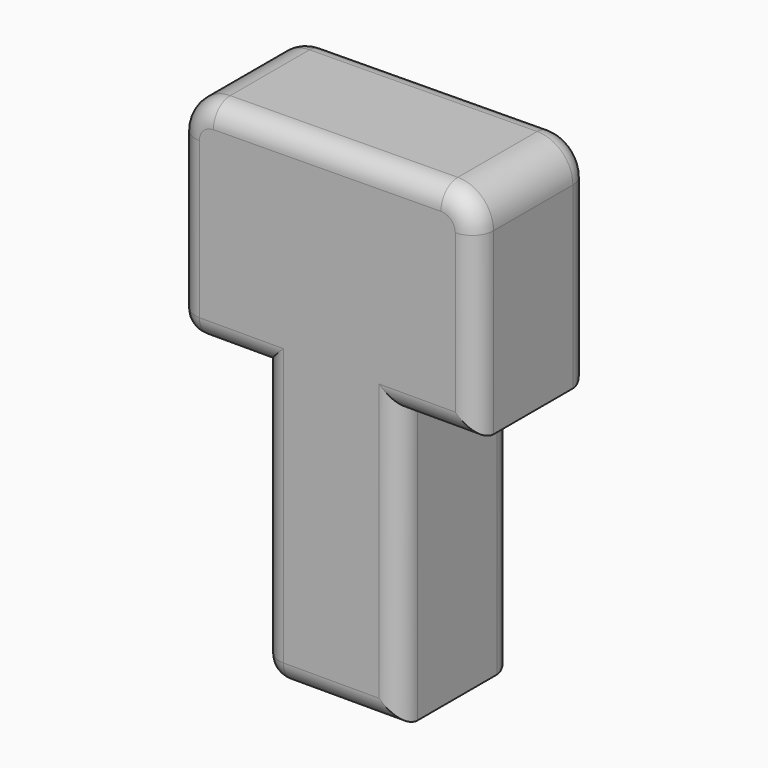
from build123d import *

# Parameters (mm, degrees)
F1_DEPTH = 25.4
F2_R     = 3.81


with BuildPart() as f1:
    # F0 (on Front) → F1 (new body)
    with BuildSketch(Plane.XZ):
        with BuildLine():
            Line((-19.715151, -2.790324), (-14.364938, -2.790324))
            Line((-14.364938, -2.790324), (-14.364938, -52.401388))
            Line((-14.364938, -52.401388), (5.090383, -52.401388))
            Line((5.090383, -52.401388), (10.440593, -52.401388))
            Line((10.440593, -52.401388), (10.440593, -2.790324))
            Line((10.440593, -2.790324), (24.075959, -2.790324))
            Line((24.075959, -2.790324), (24.075959, 29.341159))
            ThreePointArc((24.075959, 29.341159), (22.195631, 33.851649), (17.668234, 35.690896))
            Line((17.668234, 35.690896), (-23.133896, 35.319966))
            ThreePointArc((-23.133896, 35.319966), (-27.586661, 33.439901), (-29.426171, 28.970229))
            Line((-29.426171, 28.970229), (-29.426171, 0))
            Line((-29.426171, 0), (-29.426171, -2.790324))
            Line((-29.426171, -2.790324), (-24.092596, -2.790324))
            Line((-24.092596, -2.790324), (-19.715151, -2.790324))
        make_face()
    extrude(amount=F1_DEPTH)

    # F2
    f2_edges = [f1.edges().sort_by_distance(p)[0] for p in [
        (-21.895554, -25.4, -2.790324),
        (-29.426171, -25.4, 13.089953),
        (17.258276, -25.4, -2.790324),
        (-14.364938, -25.4, -27.595856),
        (-27.586661, -25.4, 33.439901),
        (-1.962172, -25.4, -52.401388),
        (10.440593, -25.4, -27.595856),
        (24.075959, -25.4, 13.275418),
        (22.195631, -25.4, 33.851649),
        (-2.732831, -25.4, 35.505431),
        (-14.364938, -12.7, -52.401388),
        (-14.364938, 0, -27.595856),
        (-29.426171, -12.7, -2.790324),
        (-21.895554, 0, -2.790324),
        (-29.426171, 0, 13.089953),
        (-27.586661, 0, 33.439901),
        (-1.962172, 0, -52.401388),
        (10.440593, 0, -27.595856),
        (17.258276, 0, -2.790324),
        (24.075959, 0, 13.275418),
        (22.195631, 0, 33.851649),
        (-2.732831, 0, 35.505431),
    ]]
    fillet(f2_edges, radius=F2_R)


solid = f1.part
